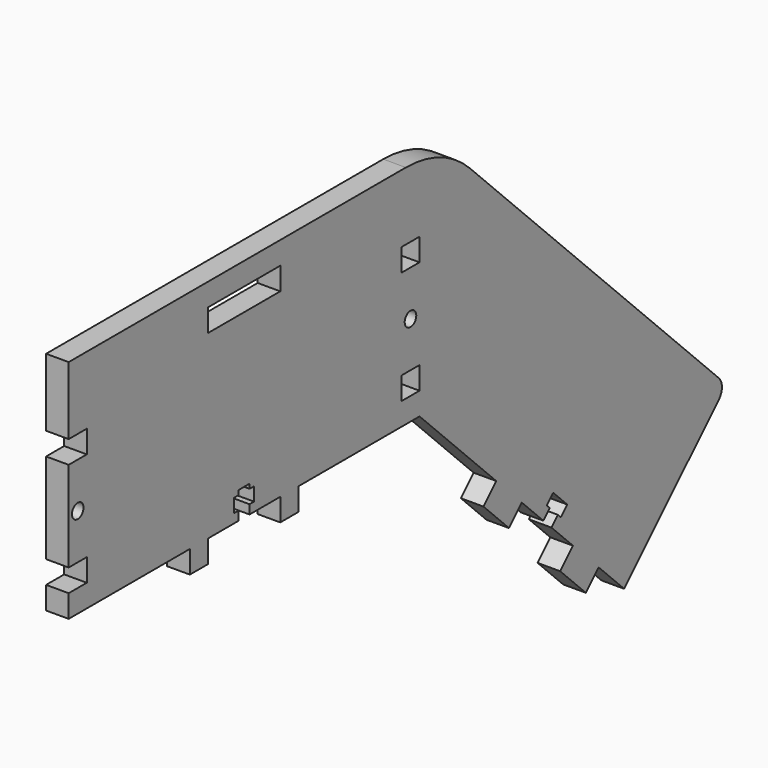
from build123d import *

# Parameters (mm, degrees)
F1_R     = 1.6
F1_W     = 20
F1_H     = 5
F1_W_2   = 5
F2_DEPTH = 5


with BuildPart() as f2:
    # F1 (on Right) → F2 (new body)
    with BuildSketch(Plane.YZ):
        with BuildLine():
            Line((0, 5), (0, 0))
            Line((0, 0), (33.5, 0))
            Line((33.5, 0), (33.5, -5))
            Line((33.5, -5), (38.5, -5))
            Line((38.5, -5), (38.5, 0))
            Line((38.5, 0), (47, 0))
            Line((47, 0), (47, 2))
            Line((47, 2), (45.75, 2))
            Line((45.75, 2), (45.75, 5))
            Line((45.75, 5), (47, 5))
            Line((47, 5), (47, 6))
            Line((47, 6), (50, 6))
            Line((50, 6), (50, 5))
            Line((50, 5), (51.25, 5))
            Line((51.25, 5), (51.25, 2))
            Line((51.25, 2), (50, 2))
            Line((50, 2), (50, 0))
            Line((50, 0), (58.5, 0))
            Line((58.5, 0), (58.5, -5))
            Line((58.5, -5), (63.5, -5))
            Line((63.5, -5), (63.5, 0))
            Line((63.5, 0), (97, 0))
            Line((97, 0), (118.2132034356, -21.2132034356))
            Line((118.2132034356, -21.2132034356), (125.2842712475, -28.2842712475))
            Line((125.2842712475, -28.2842712475), (131.2239682094, -34.2239682094))
            Line((131.2239682094, -34.2239682094), (132.9917351624, -32.4562012565))
            Line((132.9917351624, -32.4562012565), (132.178562364, -31.6430284581))
            Line((132.178562364, -31.6430284581), (133.946329317, -29.8752615051))
            Line((133.946329317, -29.8752615051), (135.8908729653, -31.8198051534))
            Line((135.8908729653, -31.8198051534), (137.8354166135, -33.7643488017))
            Line((137.8354166135, -33.7643488017), (136.0676496606, -35.5321157546))
            Line((136.0676496606, -35.5321157546), (135.2544768622, -34.7189429563))
            Line((135.2544768622, -34.7189429563), (133.4867099092, -36.4867099092))
            Line((133.4867099092, -36.4867099092), (139.4264068712, -42.4264068712))
            Line((139.4264068712, -42.4264068712), (146.4974746831, -49.4974746831))
            Line((146.4974746831, -49.4974746831), (153.5685424949, -56.5685424949))
            Line((153.5685424949, -56.5685424949), (179.7314933988, -30.405591591))
            ThreePointArc((179.7314933988, -30.405591591), (180.6101730553, -28.2842712475), (179.7314933988, -26.1629509039))
            Line((179.7314933988, -26.1629509039), (110.8908729653, 42.6776695297))
            ThreePointArc((110.8908729653, 42.6776695297), (102.7802892447, 48.0969883128), (93.2132034356, 50))
            Line((93.2132034356, 50), (0, 50))
            Line((0, 50), (0, 40))
            Line((0, 40), (0, 35))
            Line((0, 35), (5, 35))
            Line((5, 35), (5, 30))
            Line((5, 30), (0, 30))
            Line((0, 30), (0, 10))
            Line((0, 10), (5, 10))
            Line((5, 10), (5, 5))
            Line((5, 5), (0, 5))
        make_face()
        with Locations((2.5, 20)):
            Circle(F1_R, mode=Mode.SUBTRACT)
        with Locations((48.5, 42.5)):
            Rectangle(F1_W, F1_H, mode=Mode.SUBTRACT)
        with Locations((94.5, 7.5)):
            Rectangle(F1_W_2, F1_H, mode=Mode.SUBTRACT)
        with Locations((94.5, 20)):
            Circle(F1_R, mode=Mode.SUBTRACT)
        with Locations((94.5, 32.5)):
            Rectangle(F1_W_2, F1_H, mode=Mode.SUBTRACT)
        Polygon((142.9619407771, -53.033008589), (146.4974746831, -49.4974746831), (139.4264068712, -42.4264068712), (135.8908729653, -45.9619407771), align=None)
        Polygon((125.2842712475, -28.2842712475), (118.2132034356, -21.2132034356), (114.6776695297, -24.7487373415), (121.7487373415, -31.8198051534), align=None)
    extrude(amount=F2_DEPTH)


solid = f2.part
